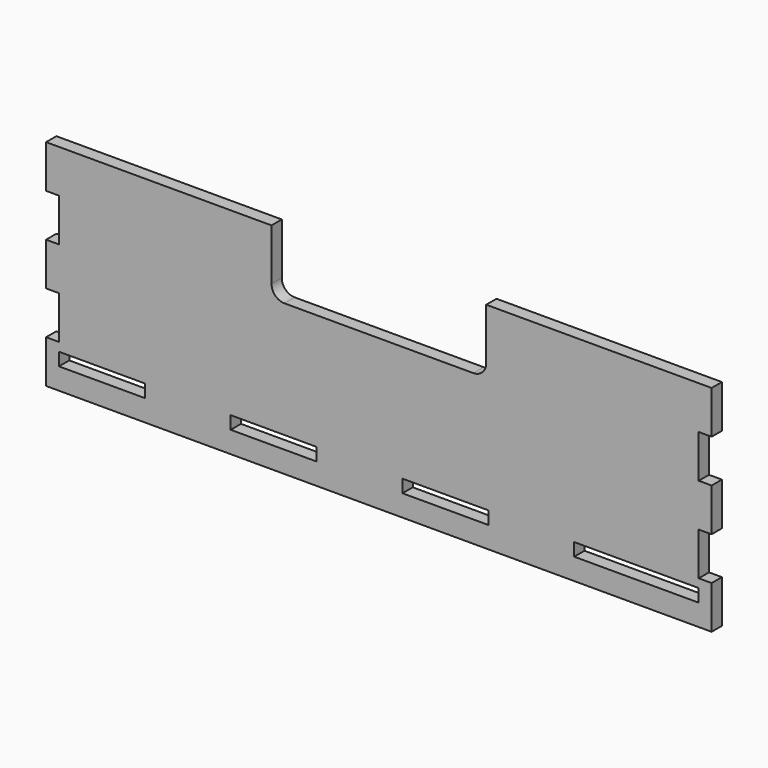
from build123d import *

# Parameters (mm, degrees)
PAD_DEPTH       = 3
SKETCH001_W     = 20
SKETCH001_H     = 3
SKETCH001_W_2   = 29
POCKET_DEPTH    = 3.001
SKETCH002_W     = 3
SKETCH002_H     = 10
POCKET001_DEPTH = 328.786205


with BuildPart() as part:
    # Sketch → Pad (new body)
    with BuildSketch(Plane.XZ):
        with BuildLine():
            Line((-77.5, -25), (77.5, -25))
            Line((77.5, -25), (77.5, 25))
            Line((77.5, 25), (25, 25))
            Line((25, 25), (25, 13))
            ThreePointArc((22, 10), (24.12132, 10.87868), (25, 13))
            Line((22, 10), (-22, 10))
            ThreePointArc((-25, 13), (-24.12132, 10.87868), (-22, 10))
            Line((-25, 13), (-25, 25))
            Line((-25, 25), (-77.5, 25))
            Line((-77.5, 25), (-77.5, -25))
        make_face()
    extrude(amount=PAD_DEPTH)

    # Sketch001 (on Face12 of Pad) → Pocket (cut, through all)
    with BuildSketch(Plane.XZ.offset(3)):
        with Locations((-64.5, -18.5)):
            Rectangle(SKETCH001_W, SKETCH001_H)
        with Locations((-24.5, -18.5)):
            Rectangle(SKETCH001_W, SKETCH001_H)
        with Locations((15.5, -18.5)):
            Rectangle(SKETCH001_W, SKETCH001_H)
        with Locations((60, -18.5)):
            Rectangle(SKETCH001_W_2, SKETCH001_H)
    extrude(amount=-POCKET_DEPTH, mode=Mode.SUBTRACT)

    # Sketch002 (on Face5 of Pocket) → Pocket001 (cut, through all)
    with BuildSketch(Plane.XZ.offset(3)):
        with Locations((-76, 10)):
            Rectangle(SKETCH002_W, SKETCH002_H)
        with Locations((-76, -10)):
            Rectangle(SKETCH002_W, SKETCH002_H)
    pocket001 = extrude(amount=-POCKET001_DEPTH, mode=Mode.SUBTRACT)

    # Mirrored: Pocket001 across Sketch002 V_Axis
    add(pocket001.mirror(Plane(origin=(0, -3, 0), x_dir=(0, -1, 0), z_dir=(1, 0, 0))), mode=Mode.SUBTRACT)


solid = part.part
